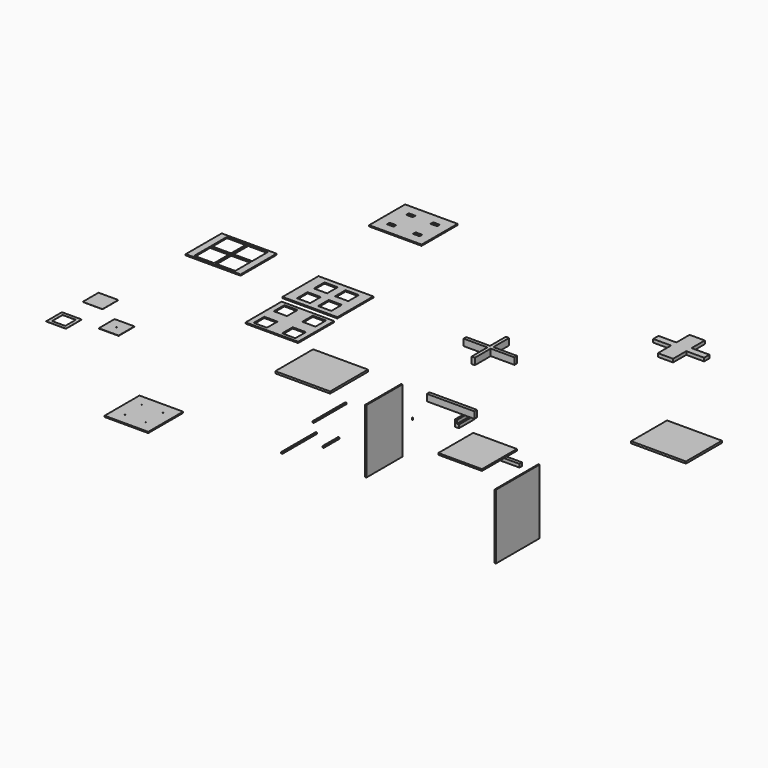
from build123d import *

# Parameters (mm, degrees)
F0_W      = 30.0409883633
F0_H      = 50
F1_DEPTH  = 300
F2_W      = 720
F2_H      = 100
F3_DEPTH  = 50
F4_W      = 720
F4_H      = 50
F5_DEPTH  = 50
F6_W      = 360
F6_H      = 50
F6_W_2    = 50
F6_H_2    = 300
F7_DEPTH  = 100
F8_W      = 680
F8_H      = 964
F9_DEPTH  = 18
F10_W     = 830
F10_H     = 680
F11_DEPTH = 30
F12_W     = 830
F12_H     = 982
F13_DEPTH = 18
F14_W     = 830
F14_H     = 716
F15_DEPTH = 30
F16_W     = 270
F16_H     = 100
F17_DEPTH = 50
F19_W     = 300
F19_H     = 300
F20_DEPTH = 18
F21_W     = 300
F21_H     = 300
F22_DEPTH = 2
F23_W     = 300
F23_H     = 300
F23_W_2   = 200
F23_H_2   = 200
F24_DEPTH = 2
F25_W     = 300
F25_H     = 300
F25_R     = 6
F26_DEPTH = 5
F27_W     = 794
F27_H     = 680
F27_W_2   = 200
F27_H_2   = 200
F28_DEPTH = 18
F29_W     = 794
F29_H     = 680
F29_W_2   = 100
F29_H_2   = 50
F30_DEPTH = 18
F18_W     = 830
F18_H     = 680
F18_W_2   = 200
F18_H_2   = 200
F31_DEPTH = 18
F32_W     = 20
F32_H     = 660
F33_DEPTH = 18
F34_W     = 20
F34_H     = 300
F35_DEPTH = 18
F36_W     = 20
F36_H     = 620
F37_DEPTH = 18
F38_W     = 660
F38_H     = 660
F38_R     = 6
F39_DEPTH = 18
F40_R     = 6
F41_DEPTH = 32
F42_D     = 11
F43_W     = 660
F43_H     = 660
F44_DEPTH = 25


with BuildPart() as f1:
    # F0 (on Front) → F1 (new body)
    with BuildSketch(Plane.XZ):
        Polygon((14.8565567657, 68.1107374531), (-15.1434432343, 68.1107374531), (-15.1434432343, -31.8892625469), (14.8565567657, -31.8892625469), (14.8565567657, 18.1107374531), align=None)
        with Locations((29.8770509474, -6.8892625469)):
            Rectangle(F0_W, F0_H)
    extrude(amount=-F1_DEPTH)


with BuildPart() as f3:
    # F2 (on Front) → F3 (new body)
    with BuildSketch(Plane.XZ):
        with Locations((-40.1805198193, 252.7475237846)):
            Rectangle(F2_W, F2_H)
    extrude(amount=F3_DEPTH)


with BuildPart() as f5:
    # F4 (on Front) → F5 (new body)
    with BuildSketch(Plane.XZ):
        with Locations((600.9988562977, -232.6151281595)):
            Rectangle(F4_W, F4_H)
    extrude(amount=-F5_DEPTH)


with BuildPart() as f7:
    # F6 (on Top) → F7 (new body)
    with BuildSketch(Plane.XY):
        Polygon((-777.4078512192, 1978.5023275101), (-827.4078512192, 1978.5023275101), (-827.4078512192, 1703.5023275101), (-827.4078512192, 1678.5023275101), (-777.4078512192, 1678.5023275101), align=None)
        with Locations((-597.4078512192, 1653.5023275101)):
            Rectangle(F6_W, F6_H)
        Polygon((-777.4078512192, 1628.5023275101), (-777.4078512192, 1678.5023275101), (-827.4078512192, 1678.5023275101), (-827.4078512192, 1666.6865173066), (-827.4078512192, 1628.5023275101), align=None)
        Polygon((-827.4078512192, 1666.6865173066), (-827.4078512192, 1678.5023275101), (-1187.4078512192, 1678.5023275101), (-1187.4078512192, 1628.5023275101), (-827.4078512192, 1628.5023275101), align=None)
        with Locations((-802.4078512192, 1478.5023275101)):
            Rectangle(F6_W_2, F6_H_2)
    extrude(amount=F7_DEPTH)


with BuildPart() as f9:
    # F8 (on Right) → F9 (new body)
    with BuildSketch(Plane.YZ):
        with Locations((-1353.5176134109, 467.9310484228)):
            Rectangle(F8_W, F8_H)
    extrude(amount=-F9_DEPTH)


with BuildPart() as f11:
    # F10 (on Top) → F11 (new body)
    with BuildSketch(Plane.XY):
        with Locations((2327.9753017426, 1260.5940054691)):
            Rectangle(F10_W, F10_H)
    extrude(amount=F11_DEPTH)


with BuildPart() as f13:
    # F12 (on Right) → F13 (new body)
    with BuildSketch(Plane.YZ):
        with Locations((1146.7400032282, -1649.0148492559)):
            Rectangle(F12_W, F12_H)
    extrude(amount=F13_DEPTH)


with BuildPart() as f15:
    # F14 (on Top) → F15 (new body)
    with BuildSketch(Plane.XY):
        with Locations((-2073.2500171661, 51.3132112026)):
            Rectangle(F14_W, F14_H)
    extrude(amount=F15_DEPTH)


with BuildPart() as f17:
    # F16 (on Top) → F17 (new body)
    with BuildSketch(Plane.XY):
        with Locations((1141.9642066956, 3146.4329242706)):
            Rectangle(F16_W, F16_H)
        with Locations((641.9642066956, 3146.4329242706)):
            Rectangle(F16_W, F16_H)
        Polygon((1006.9642066956, 3196.4329242706), (1006.9642066956, 3446.4329242706), (776.9642066956, 3446.4329242706), (776.9642066956, 3196.4329242706), (776.9642066956, 3096.4329242706), (776.9642066956, 2846.4329242706), (1006.9642066956, 2846.4329242706), (1006.9642066956, 3096.4329242706), align=None)
    extrude(amount=F17_DEPTH)


with BuildPart() as f20:
    # F19 (on Top) → F20 (new body)
    with BuildSketch(Plane.XY):
        Polygon((-4390.7220350689, 2095.7851672173), (-5220.7220350689, 2095.7851672173), (-5220.7220350689, 1415.7851672173), (-4770.7220350689, 1415.7851672173), (-4470.7220350689, 1415.7851672173), (-4390.7220350689, 1415.7851672173), align=None)
        with Locations((-4965.7220350689, 1595.7851672173)):
            Rectangle(F19_W, F19_H, mode=Mode.SUBTRACT)
        with Locations((-4645.7220350689, 1595.7851672173)):
            Rectangle(F19_W, F19_H, mode=Mode.SUBTRACT)
        with Locations((-4965.7220350689, 1915.7851672173)):
            Rectangle(F19_W, F19_H, mode=Mode.SUBTRACT)
        with Locations((-4645.7220350689, 1915.7851672173)):
            Rectangle(F19_W, F19_H, mode=Mode.SUBTRACT)
    extrude(amount=-F20_DEPTH)


with BuildPart() as f22:
    # F21 (on Top) → F22 (new body)
    with BuildSketch(Plane.XY):
        with Locations((-5256.3115369731, -150.8302651346)):
            Rectangle(F21_W, F21_H)
    extrude(amount=F22_DEPTH)


with BuildPart() as f24:
    # F23 (on Top) → F24 (new body)
    with BuildSketch(Plane.XY):
        with Locations((-5282.336473465, -810.2675573208)):
            Rectangle(F23_W, F23_H)
        with Locations((-5282.336473465, -810.2675573208)):
            Rectangle(F23_W_2, F23_H_2, mode=Mode.SUBTRACT)
    extrude(amount=F24_DEPTH)


with BuildPart() as f26:
    # F25 (on Top) → F26 (new body)
    with BuildSketch(Plane.XY):
        with Locations((-4682.4827194214, -563.5329654431)):
            Rectangle(F25_W, F25_H)
        with Locations((-4682.4827194214, -563.5329654431)):
            Circle(F25_R, mode=Mode.SUBTRACT)
    extrude(amount=F26_DEPTH)


with BuildPart() as f28:
    # F27 (on Top) → F28 (new body)
    with BuildSketch(Plane.XY):
        with Locations((-3158.8057279587, 807.5770498396)):
            Rectangle(F27_W, F27_H)
        with Locations((-3373.8057279587, 617.5770498396)):
            Rectangle(F27_W_2, F27_H_2, mode=Mode.SUBTRACT)
        with Locations((-2943.8057279587, 617.5770498396)):
            Rectangle(F27_W_2, F27_H_2, mode=Mode.SUBTRACT)
        with Locations((-3373.8057279587, 997.5770498396)):
            Rectangle(F27_W_2, F27_H_2, mode=Mode.SUBTRACT)
        with Locations((-2943.8057279587, 997.5770498396)):
            Rectangle(F27_W_2, F27_H_2, mode=Mode.SUBTRACT)
    extrude(amount=F28_DEPTH)


with BuildPart() as f30:
    # F29 (on Top) → F30 (new body)
    with BuildSketch(Plane.XY):
        with Locations((-3572.9459781647, 3660.713532706)):
            Rectangle(F29_W, F29_H)
        with Locations((-3769.9459781647, 3495.713532706)):
            Rectangle(F29_W_2, F29_H_2, mode=Mode.SUBTRACT)
        with Locations((-3375.9459781647, 3495.713532706)):
            Rectangle(F29_W_2, F29_H_2, mode=Mode.SUBTRACT)
        with Locations((-3742.9459781647, 3825.713532706)):
            Rectangle(F29_W_2, F29_H_2, mode=Mode.SUBTRACT)
        with Locations((-3375.9459781647, 3825.713532706)):
            Rectangle(F29_W_2, F29_H_2, mode=Mode.SUBTRACT)
    extrude(amount=F30_DEPTH)


with BuildPart() as f31:
    # F18 (on Top) → F31 (new body)
    with BuildSketch(Plane.XY):
        with Locations((-3207.8919506073, 1588.4422064173)):
            Rectangle(F18_W, F18_H)
        with Locations((-3367.8919506073, 1428.4422064173)):
            Rectangle(F18_W_2, F18_H_2, mode=Mode.SUBTRACT)
        with Locations((-3047.8919506073, 1428.4422064173)):
            Rectangle(F18_W_2, F18_H_2, mode=Mode.SUBTRACT)
        with Locations((-3367.8919506073, 1748.4422064173)):
            Rectangle(F18_W_2, F18_H_2, mode=Mode.SUBTRACT)
        with Locations((-3047.8919506073, 1748.4422064173)):
            Rectangle(F18_W_2, F18_H_2, mode=Mode.SUBTRACT)
    extrude(amount=F31_DEPTH)


with BuildPart() as f33:
    # F32 (on Top) → F33 (new body)
    with BuildSketch(Plane.XY):
        with Locations((-1146.4315652847, -1533.4611034963)):
            Rectangle(F32_W, F32_H)
    extrude(amount=F33_DEPTH)


with BuildPart() as f35:
    # F34 (on Top) → F35 (new body)
    with BuildSketch(Plane.XY):
        with Locations((-860.0686490536, -1289.2025062268)):
            Rectangle(F34_W, F34_H)
    extrude(amount=F35_DEPTH)


with BuildPart() as f37:
    # F36 (on Top) → F37 (new body)
    with BuildSketch(Plane.XY):
        with Locations((-1350.1902222633, -705.5588261528)):
            Rectangle(F36_W, F36_H)
    extrude(amount=F37_DEPTH)


with BuildPart() as f39:
    # F38 (on Top) → F39 (new body)
    with BuildSketch(Plane.XY):
        with Locations((-3035.4782342911, -2107.5331499462)):
            Rectangle(F38_W, F38_H)
        with Locations((-3195.4782342911, -2267.5331499462)):
            Circle(F38_R, mode=Mode.SUBTRACT)
        with Locations((-2875.4782342911, -2267.5331499462)):
            Circle(F38_R, mode=Mode.SUBTRACT)
        with Locations((-3195.4782342911, -1947.5331499462)):
            Circle(F38_R, mode=Mode.SUBTRACT)
        with Locations((-2875.4782342911, -1947.5331499462)):
            Circle(F38_R, mode=Mode.SUBTRACT)
    extrude(amount=F39_DEPTH)


with BuildPart() as f41:
    # F40 (on Top) → F41 (new body)
    with BuildSketch(Plane.XY):
        with Locations((-478.0965745449, -224.3489027023)):
            Circle(F40_R)
    extrude(amount=F41_DEPTH)

    # F42 (through all)
    with Locations(Plane(origin=(0, 0, 0), x_dir=(1, 0, 0), z_dir=(0, 0, -1))):
        with Locations((-478.0965745449, 224.3489027023)):
            Hole(F42_D / 2)


with BuildPart() as f44:
    # F43 (on Top) → F44 (new body)
    with BuildSketch(Plane.XY):
        with Locations((647.740021348, -400.2288863501)):
            Rectangle(F43_W, F43_H)
    extrude(amount=F44_DEPTH)


solid = Compound([f1.part, f3.part, f5.part, f7.part, f9.part, f11.part, f13.part, f15.part, f17.part, f20.part, f22.part, f24.part, f26.part, f28.part, f30.part, f31.part, f33.part, f35.part, f37.part, f39.part, f41.part, f44.part])
